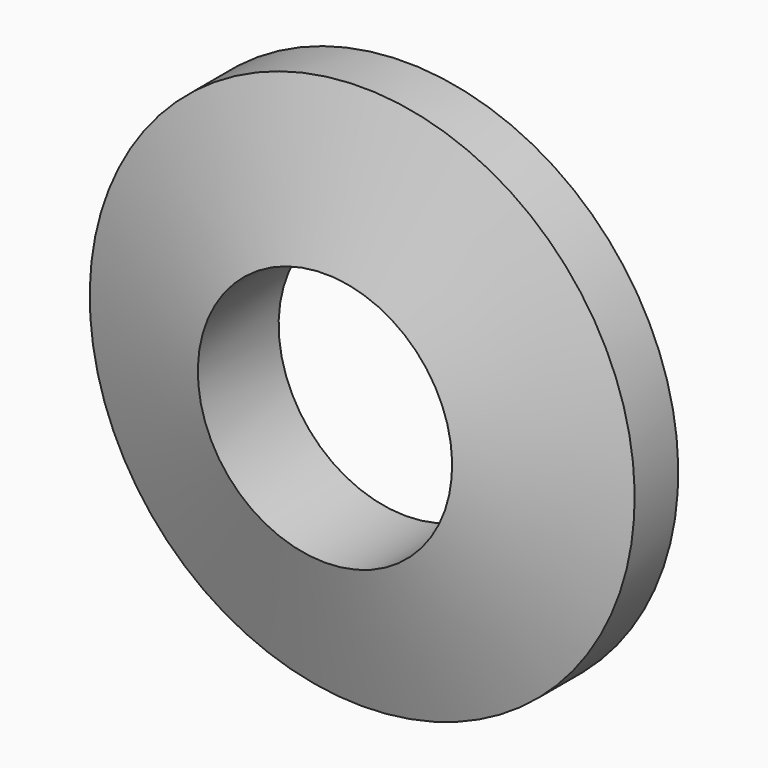
from build123d import *


with BuildPart() as f1:
    # F0 (on Right) → F1 (revolve)
    with BuildSketch(Plane.YZ):
        Polygon((0, -7.5), (0, -3.5), (-2.780625, -3.5), (-1.5, -7.5), align=None)
        Polygon((0, -7.5), (0, -3.5), (-2.780625, -3.5), (-1.5, -7.5), align=None)
    revolve(axis=Axis((0, -1.326888, 0), (0, -1, 0)))


solid = f1.part
